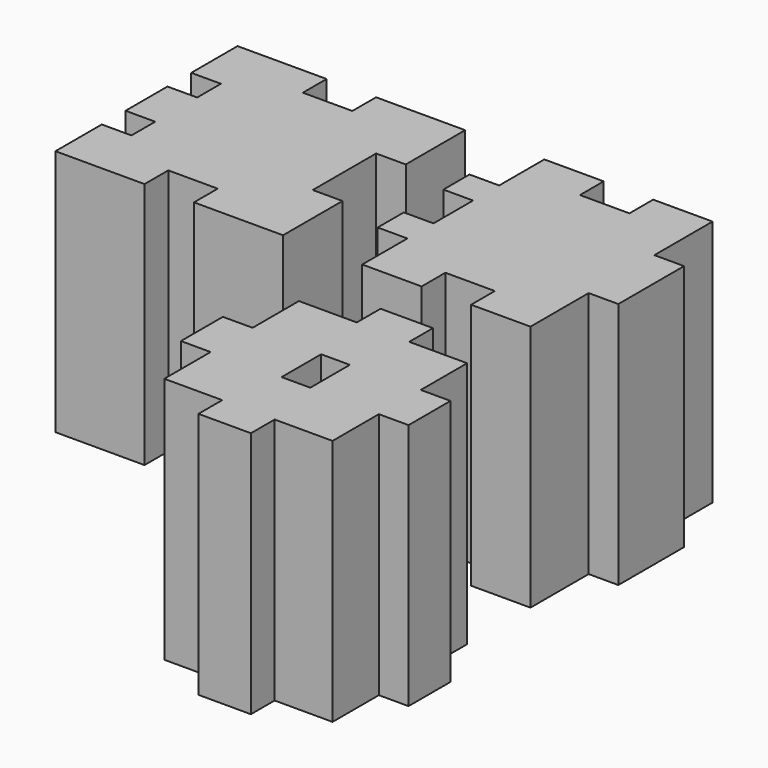
from build123d import *

# Parameters (mm, degrees)
F0_W     = 2.9
F0_H     = 5
F1_DEPTH = 25


with BuildPart() as f1:
    # F0 (on Top) → F1 (new body)
    with BuildSketch(Plane.XY):
        Polygon((-20.924789, 32.304274), (-29.924789, 32.304274), (-29.924789, 26.454274), (-26.924789, 26.454274), (-26.924789, 23.454274), (-29.924789, 23.454274), (-29.924789, 18.154274), (-26.924789, 18.154274), (-26.924789, 15.154274), (-29.924789, 15.154274), (-29.924789, 9.304274), (-20.924789, 9.304274), (-20.924789, 12.304274), (-15.924789, 12.304274), (-15.924789, 9.304274), (-6.924789, 9.304274), (-6.924789, 16.804274), (-9.924789, 16.804274), (-9.924789, 24.804274), (-6.924789, 24.804274), (-6.924789, 32.304274), (-15.924789, 32.304274), (-15.924789, 29.304274), (-20.924789, 29.304274), align=None)
        Polygon((7.075211, 32.304274), (1.075211, 32.304274), (1.075211, 26.604274), (-1.924789, 26.604274), (-1.924789, 23.304274), (1.075211, 23.304274), (1.075211, 18.304274), (-1.924789, 18.304274), (-1.924789, 15.004274), (1.075211, 15.004274), (1.075211, 9.304274), (7.075211, 9.304274), (7.075211, 12.304274), (12.075211, 12.304274), (12.075211, 9.304274), (18.075211, 9.304274), (18.075211, 16.654274), (21.075211, 16.654274), (21.075211, 24.954274), (18.075211, 24.954274), (18.075211, 32.304274), (12.075211, 32.304274), (12.075211, 29.304274), (7.075211, 29.304274), align=None)
        Polygon((6.925211, 1.304274), (1.075211, 1.304274), (1.075211, -4.545726), (-1.924789, -4.545726), (-1.924789, -9.845726), (1.075211, -9.845726), (1.075211, -15.695726), (6.925211, -15.695726), (6.925211, -18.695726), (12.225211, -18.695726), (12.225211, -15.695726), (18.075211, -15.695726), (18.075211, -9.845726), (21.075211, -9.845726), (21.075211, -4.545726), (18.075211, -4.545726), (18.075211, 1.304274), (12.225211, 1.304274), (12.225211, 4.304274), (6.925211, 4.304274), align=None)
        with Locations((9.575211, -7.195726)):
            Rectangle(F0_W, F0_H, mode=Mode.SUBTRACT)
    extrude(amount=F1_DEPTH)


solid = f1.part
